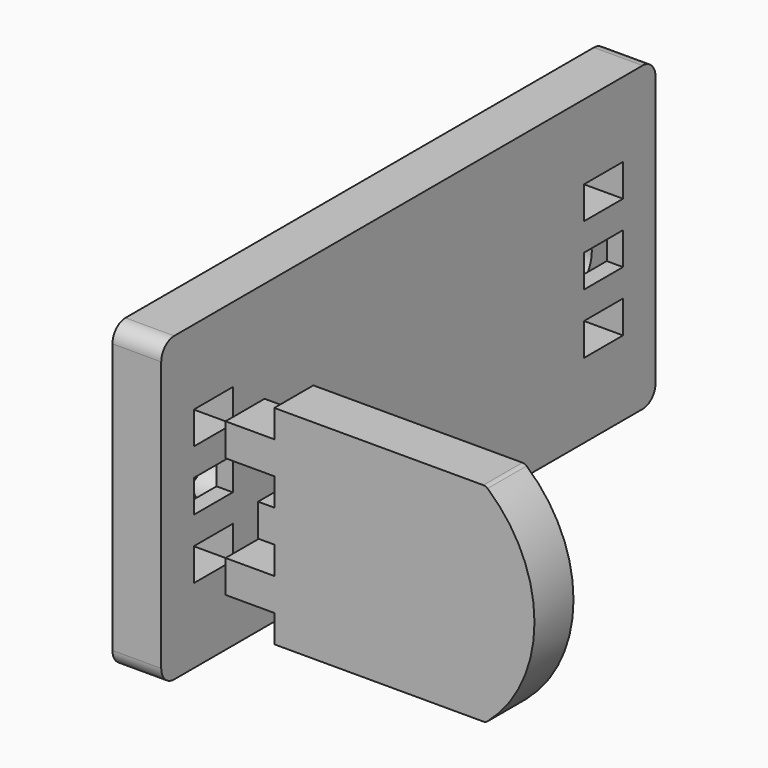
from build123d import *

# Parameters (mm, degrees)
F0_W     = 15
F0_H     = 10
F0_R     = 9.25
F1_DEPTH = 15
F3_W     = 15
F3_H     = 10
F3_W_2   = 10
F3_H_2   = 15
F3_R     = 7.5
F4_DEPTH = 15
F5_DEPTH = 5
F6_DEPTH = 10
F7_W     = 15
F7_H     = 10
F8_DEPTH = 5


with BuildPart() as f1:
    # F0 (on Right) → F1 (new body)
    with BuildSketch(Plane.YZ):
        with BuildLine():
            Line((-90, -46.5), (90, -46.5))
            ThreePointArc((90, -46.5), (93.5355339059, -45.0355339059), (95, -41.5))
            Line((95, -41.5), (95, 41.5))
            ThreePointArc((95, 41.5), (93.5355339059, 45.0355339059), (90, 46.5))
            Line((90, 46.5), (-90, 46.5))
            ThreePointArc((-90, 46.5), (-93.5355339059, 45.0355339059), (-95, 41.5))
            Line((-95, 41.5), (-95, -41.5))
            ThreePointArc((-95, -41.5), (-93.5355339059, -45.0355339059), (-90, -46.5))
        make_face()
        with Locations((-75, -18.5)):
            Rectangle(F0_W, F0_H, mode=Mode.SUBTRACT)
        with Locations((75, -18.5)):
            Rectangle(F0_W, F0_H, mode=Mode.SUBTRACT)
        with BuildLine():
            ThreePointArc((-75.2821912081, 5), (-64.8945027994, 8.8754653026), (-58.25, 0))
            ThreePointArc((-58.25, 0), (-64.8945027994, -8.8754653026), (-75.2821912081, -5))
            Line((-75.2821912081, -5), (-82.5, -5))
            Line((-82.5, -5), (-82.5, 5))
            Line((-82.5, 5), (-75.2821912081, 5))
        make_face(mode=Mode.SUBTRACT)
        with Locations((-75, 18.5)):
            Rectangle(F0_W, F0_H, mode=Mode.SUBTRACT)
        with Locations((67.5, 0)):
            Circle(F0_R, mode=Mode.SUBTRACT)
        with Locations((75, 18.5)):
            Rectangle(F0_W, F0_H, mode=Mode.SUBTRACT)
        with BuildLine():
            Line((-90, -46.5), (90, -46.5))
            ThreePointArc((90, -46.5), (93.5355339059, -45.0355339059), (95, -41.5))
            Line((95, -41.5), (95, 41.5))
            ThreePointArc((95, 41.5), (93.5355339059, 45.0355339059), (90, 46.5))
            Line((90, 46.5), (-90, 46.5))
            ThreePointArc((-90, 46.5), (-93.5355339059, 45.0355339059), (-95, 41.5))
            Line((-95, 41.5), (-95, -41.5))
            ThreePointArc((-95, -41.5), (-93.5355339059, -45.0355339059), (-90, -46.5))
        make_face()
        with Locations((-75, -18.5)):
            Rectangle(F0_W, F0_H, mode=Mode.SUBTRACT)
        with Locations((75, -18.5)):
            Rectangle(F0_W, F0_H, mode=Mode.SUBTRACT)
        with BuildLine():
            ThreePointArc((-75.2821912081, 5), (-64.8945027994, 8.8754653026), (-58.25, 0))
            ThreePointArc((-58.25, 0), (-64.8945027994, -8.8754653026), (-75.2821912081, -5))
            Line((-75.2821912081, -5), (-82.5, -5))
            Line((-82.5, -5), (-82.5, 5))
            Line((-82.5, 5), (-75.2821912081, 5))
        make_face(mode=Mode.SUBTRACT)
        with Locations((-75, 18.5)):
            Rectangle(F0_W, F0_H, mode=Mode.SUBTRACT)
        with Locations((67.5, 0)):
            Circle(F0_R, mode=Mode.SUBTRACT)
        with Locations((75, 18.5)):
            Rectangle(F0_W, F0_H, mode=Mode.SUBTRACT)
        with BuildLine():
            Line((-90, -46.5), (90, -46.5))
            ThreePointArc((90, -46.5), (93.5355339059, -45.0355339059), (95, -41.5))
            Line((95, -41.5), (95, 41.5))
            ThreePointArc((95, 41.5), (93.5355339059, 45.0355339059), (90, 46.5))
            Line((90, 46.5), (-90, 46.5))
            ThreePointArc((-90, 46.5), (-93.5355339059, 45.0355339059), (-95, 41.5))
            Line((-95, 41.5), (-95, -41.5))
            ThreePointArc((-95, -41.5), (-93.5355339059, -45.0355339059), (-90, -46.5))
        make_face()
        with Locations((-75, -18.5)):
            Rectangle(F0_W, F0_H, mode=Mode.SUBTRACT)
        with Locations((75, -18.5)):
            Rectangle(F0_W, F0_H, mode=Mode.SUBTRACT)
        with BuildLine():
            ThreePointArc((-75.2821912081, 5), (-64.8945027994, 8.8754653026), (-58.25, 0))
            ThreePointArc((-58.25, 0), (-64.8945027994, -8.8754653026), (-75.2821912081, -5))
            Line((-75.2821912081, -5), (-82.5, -5))
            Line((-82.5, -5), (-82.5, 5))
            Line((-82.5, 5), (-75.2821912081, 5))
        make_face(mode=Mode.SUBTRACT)
        with Locations((-75, 18.5)):
            Rectangle(F0_W, F0_H, mode=Mode.SUBTRACT)
        with Locations((67.5, 0)):
            Circle(F0_R, mode=Mode.SUBTRACT)
        with Locations((75, 18.5)):
            Rectangle(F0_W, F0_H, mode=Mode.SUBTRACT)
        with BuildLine():
            Line((-67.5, 5), (-75.2821912081, 5))
            ThreePointArc((-75.2821912081, 5), (-76.75, 0), (-75.2821912081, -5))
            Line((-75.2821912081, -5), (-67.5, -5))
            Line((-67.5, -5), (-67.5, 5))
        make_face()
        with BuildLine():
            ThreePointArc((-75.2821912081, -5), (-64.8945027994, -8.8754653026), (-58.25, 0))
            ThreePointArc((-58.25, 0), (-64.8945027994, 8.8754653026), (-75.2821912081, 5))
            Line((-75.2821912081, 5), (-67.5, 5))
            Line((-67.5, 5), (-67.5, -5))
            Line((-67.5, -5), (-75.2821912081, -5))
        make_face()
        with Locations((67.5, 0)):
            Circle(F0_R)
        with BuildLine():
            ThreePointArc((-75.2821912081, -5), (-76.75, 0), (-75.2821912081, 5))
            Line((-75.2821912081, 5), (-82.5, 5))
            Line((-82.5, 5), (-82.5, -5))
            Line((-82.5, -5), (-75.2821912081, -5))
        make_face()
    extrude(amount=F1_DEPTH)

    # F0 (on Right) → F6 (cut)
    with BuildSketch(Plane.YZ):
        with Locations((67.5, 0)):
            Circle(F0_R)
        with BuildLine():
            Line((-67.5, 5), (-75.2821912081, 5))
            ThreePointArc((-75.2821912081, 5), (-76.75, 0), (-75.2821912081, -5))
            Line((-75.2821912081, -5), (-67.5, -5))
            Line((-67.5, -5), (-67.5, 5))
        make_face()
        with BuildLine():
            ThreePointArc((-75.2821912081, -5), (-64.8945027994, -8.8754653026), (-58.25, 0))
            ThreePointArc((-58.25, 0), (-64.8945027994, 8.8754653026), (-75.2821912081, 5))
            Line((-75.2821912081, 5), (-67.5, 5))
            Line((-67.5, 5), (-67.5, -5))
            Line((-67.5, -5), (-75.2821912081, -5))
        make_face()
    extrude(amount=F6_DEPTH, mode=Mode.SUBTRACT)

    # F7 (on face) → F8 (cut)
    with BuildSketch(Plane.YZ.offset(15)):
        with Locations((-75, 0)):
            Rectangle(F7_W, F7_H)
        with Locations((75, 0)):
            Rectangle(F7_W, F7_H)
    extrude(amount=-F8_DEPTH, mode=Mode.SUBTRACT)


with BuildPart() as f4:
    # F3 (on offset) → F4 (new body)
    with BuildSketch(Plane.XZ.offset(67.5)):
        with BuildLine():
            ThreePointArc((105.3473567366, 31.5138772077), (104.7376098057, 31.8745338641), (104.04038474, 32))
            Line((104.04038474, 32), (39.7738896741, 32))
            Line((39.7738896741, 32), (39.7738896741, 23.5))
            Line((39.7738896741, 23.5), (24.7738896741, 23.5))
            Line((24.7738896741, 23.5), (24.7738896741, 13.5))
            Line((24.7738896741, 13.5), (39.7738896741, 13.5))
            Line((39.7738896741, 13.5), (39.7738896741, 5))
            Line((39.7738896741, 5), (34.7738896741, 5))
            Line((34.7738896741, 5), (34.7738896741, -5))
            Line((34.7738896741, -5), (39.7738896741, -5))
            Line((39.7738896741, -5), (39.7738896741, -13.5))
            Line((39.7738896741, -13.5), (24.7738896741, -13.5))
            Line((24.7738896741, -13.5), (24.7738896741, -23.5))
            Line((24.7738896741, -23.5), (39.7738896741, -23.5))
            Line((39.7738896741, -23.5), (39.7738896741, -32))
            Line((39.7738896741, -32), (104.04038474, -32))
            ThreePointArc((104.04038474, -32), (104.7376098057, -31.8745338641), (105.3473567366, -31.5138772077))
            ThreePointArc((105.3473567366, -31.5138772077), (119.7738896741, 0), (105.3473567366, 31.5138772077))
        make_face()
        with Locations((93.8638073206, -18.5)):
            Rectangle(F3_W, F3_H, mode=Mode.SUBTRACT)
        with Locations((58.1405563407, 0)):
            Rectangle(F3_W_2, F3_H_2, mode=Mode.SUBTRACT)
        with Locations((101.3638073206, 0)):
            Circle(F3_R, mode=Mode.SUBTRACT)
        with Locations((93.8638073206, 18.5)):
            Rectangle(F3_W, F3_H, mode=Mode.SUBTRACT)
        with Locations((101.3638073206, 0)):
            Circle(F3_R)
        with Locations((93.8638073206, 18.5)):
            Rectangle(F3_W, F3_H)
        with Locations((93.8638073206, -18.5)):
            Rectangle(F3_W, F3_H)
        with Locations((58.1405563407, 0)):
            Rectangle(F3_W_2, F3_H_2)
    extrude(amount=F4_DEPTH)

    # F3 (on offset) → F5 (cut)
    with BuildSketch(Plane.XZ.offset(67.5)):
        with Locations((101.3638073206, 0)):
            Circle(F3_R)
    extrude(amount=F5_DEPTH, mode=Mode.SUBTRACT)


solid = Compound([f1.part, f4.part])
